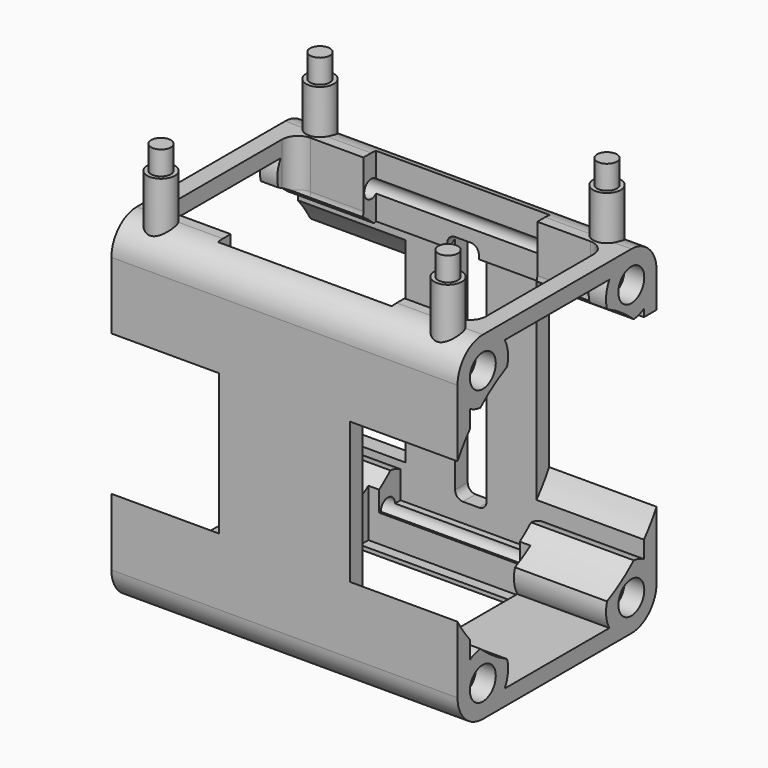
from build123d import *

# Parameters (mm, degrees)
BOX011_W          = 4
BOX011_H          = 30
BOX011_DEPTH      = 30
FILLET001_R       = 1
BOX_W             = 22
BOX_H             = 25
BOX_DEPTH         = 10
BOX009_W          = 14.4
BOX009_H          = 16
BOX009_DEPTH      = 10
CYLINDER004_R     = 18.1
CYLINDER004_DEPTH = 14.4
CYLINDER005_R     = 18.1
CYLINDER005_DEPTH = 14.4
SKETCH004_W       = 20.5
SKETCH004_H       = 1.35
PAD004_DEPTH      = 0.5
SKETCH006_W       = 20.5
SKETCH006_H       = 1.5
PAD006_DEPTH      = 0.5
BOX006_W          = 20.5
BOX006_H          = 20.7
BOX006_DEPTH      = 10
BOX010_W          = 17.8
BOX010_H          = 27.486102
BOX010_DEPTH      = 10
BOX007_W          = 39.4
BOX007_H          = 21
BOX007_DEPTH      = 10
FILLET_R          = 2
BOX008_W          = 14.4
BOX008_H          = 16
BOX008_DEPTH      = 10
SKETCH003_R       = 1.125
PAD003_DEPTH      = 19.4
SKETCH005_R       = 2.05
PAD005_DEPTH      = 21.9
SKETCH012_W       = 50
SKETCH012_H       = 40
SKETCH012_R       = 1.75
PAD010_DEPTH      = 7
BOX013_W          = 50
BOX013_H          = 40
BOX013_DEPTH      = 7
SKETCH011_W       = 50
SKETCH011_H       = 40
SKETCH011_R       = 1.25
PAD009_DEPTH      = 10
BOX012_W          = 50
BOX012_H          = 40
BOX012_DEPTH      = 10


with BuildPart() as fillet001:
    # Box011 → Box011 (new body)
    with BuildSketch(Plane(origin=(-2, 0, -15), x_dir=(1, 0, 0), z_dir=(0, 0, 1))):
        with Locations((2, 15)):
            Rectangle(BOX011_W, BOX011_H)
    extrude(amount=BOX011_DEPTH)

    # Fillet001
    fillet001_edges = [fillet001.edges().sort_by_distance(p)[0] for p in [
        (-2, 0, 0),
        (-2, 15, 15),
        (-2, 30, 0),
        (-2, 15, -15),
        (2, 0, 0),
        (2, 15, 15),
        (2, 30, 0),
        (2, 15, -15),
        (0, 0, -15),
        (0, 0, 15),
        (0, 30, -15),
        (0, 30, 15),
    ]]
    fillet(fillet001_edges, radius=FILLET001_R)


with BuildPart() as cube:
    # Box → Box (new body)
    with BuildSketch(Plane(origin=(-11, -12.5, 12), x_dir=(1, 0, 0), z_dir=(0, 0, 1))):
        with Locations((11, 12.5)):
            Rectangle(BOX_W, BOX_H)
    extrude(amount=BOX_DEPTH)


with BuildPart() as cube009:
    # Box009 → Box009 (new body)
    with BuildSketch(Plane(origin=(8.3, 12, 3), x_dir=(1, 0, 0), z_dir=(0, 0, 1))):
        with Locations((7.2, 8)):
            Rectangle(BOX009_W, BOX009_H)
    extrude(amount=BOX009_DEPTH)


with BuildPart() as cylinder004:
    # Cylinder004 → Cylinder004 (new body)
    with BuildSketch(Plane(origin=(-22.7, 0, 0), x_dir=(0, 0, -1), z_dir=(1, 0, 0))):
        Circle(CYLINDER004_R)
    extrude(amount=CYLINDER004_DEPTH)


with BuildPart() as cylinder005:
    # Cylinder005 → Cylinder005 (new body)
    with BuildSketch(Plane(origin=(8.3, 0, 0), x_dir=(0, 0, -1), z_dir=(1, 0, 0))):
        Circle(CYLINDER005_R)
    extrude(amount=CYLINDER005_DEPTH)


with BuildPart() as body005:
    # Sketch004 → Pad004 (new body)
    with BuildSketch(Plane.XY.offset(-21.609789)):
        with Locations((0, -9.775)):
            Rectangle(SKETCH004_W, SKETCH004_H)
    extrude(amount=PAD004_DEPTH)


with BuildPart() as fusion008:
    # Sketch006 → Pad006 (new body)
    with BuildSketch(Plane.XY.offset(-21.609789)):
        with Locations((0, 9.8)):
            Rectangle(SKETCH006_W, SKETCH006_H)
    extrude(amount=PAD006_DEPTH)

    # Fusion007: union Body005
    add(body005.part)


with BuildPart() as fusion008_1:
    # Fusion007 placement: moved
    add(fusion008.part.moved(Location((0, 0, 0.2))))


with BuildPart() as cut001:
    # Box006 → Box006 (new body)
    with BuildSketch(Plane(origin=(-10.25, -10.35, -22.409789), x_dir=(1, 0, 0), z_dir=(0, 0, 1))):
        with Locations((10.25, 10.35)):
            Rectangle(BOX006_W, BOX006_H)
    extrude(amount=BOX006_DEPTH)

    # Cut001: cut Fusion008
    add(fusion008_1.part, mode=Mode.SUBTRACT)


with BuildPart() as cube010:
    # Box010 → Box010 (new body)
    with BuildSketch(Plane(origin=(-8.9, -13.743051, -17.409789), x_dir=(1, 0, 0), z_dir=(0, 0, 1))):
        with Locations((8.9, 13.743051)):
            Rectangle(BOX010_W, BOX010_H)
    extrude(amount=BOX010_DEPTH)


with BuildPart() as fillet_body:
    # Box007 → Box007 (new body)
    with BuildSketch(Plane(origin=(-19.7, -10.5, 13.409789), x_dir=(1, 0, 0), z_dir=(0, 0, 1))):
        with Locations((19.7, 10.5)):
            Rectangle(BOX007_W, BOX007_H)
    extrude(amount=BOX007_DEPTH)

    # Fillet
    fillet_edges = [fillet_body.edges().sort_by_distance(p)[0] for p in [
        (-19.7, -10.5, 18.409789),
        (-19.7, 0, 23.409789),
        (-19.7, 10.5, 18.409789),
        (-19.7, 0, 13.409789),
        (19.7, -10.5, 18.409789),
        (19.7, 0, 23.409789),
        (19.7, 10.5, 18.409789),
        (19.7, 0, 13.409789),
        (0, -10.5, 13.409789),
        (0, -10.5, 23.409789),
        (0, 10.5, 13.409789),
        (0, 10.5, 23.409789),
    ]]
    fillet(fillet_edges, radius=FILLET_R)


with BuildPart() as fusion007:
    # Box008 → Box008 (new body)
    with BuildSketch(Plane(origin=(-22.7, 12, -13), x_dir=(1, 0, 0), z_dir=(0, 0, 1))):
        with Locations((7.2, 8)):
            Rectangle(BOX008_W, BOX008_H)
    extrude(amount=BOX008_DEPTH)

    # Fusion006: union Cube009, Cylinder004, Cylinder005, Cut001, Cube010, Fillet body
    add(cube009.part)
    add(cylinder004.part)
    add(cylinder005.part)
    add(cut001.part)
    add(cube010.part)
    add(fillet_body.part)


with BuildPart() as cut004:
    # Sketch003 → Pad003 (new body, symmetric)
    with BuildSketch(Plane.YZ):
        with BuildLine():
            ThreePointArc((-11.743051, 21.409789), (-14.571478, 20.238216), (-15.743051, 17.409789))
            Line((-15.743051, 17.409789), (-15.743051, -17.409789))
            ThreePointArc((-15.743051, -17.409789), (-14.571478, -20.238216), (-11.743051, -21.409789))
            Line((-11.743051, -21.409789), (11.743051, -21.409789))
            ThreePointArc((11.743051, -21.409789), (14.571478, -20.238216), (15.743051, -17.409789))
            Line((15.743051, 17.409765), (15.743051, -17.409789))
            ThreePointArc((15.743051, 17.409765), (14.571487, 20.238208), (11.743051, 21.409789))
            Line((-11.743051, 21.409789), (11.743051, 21.409789))
        make_face()
        with Locations((11.743051, 17.409789)):
            Circle(SKETCH003_R, mode=Mode.SUBTRACT)
        with Locations((-11.743051, 17.409789)):
            Circle(SKETCH003_R, mode=Mode.SUBTRACT)
        with Locations((-11.743051, -17.409789)):
            Circle(SKETCH003_R, mode=Mode.SUBTRACT)
        with Locations((11.743051, -17.409789)):
            Circle(SKETCH003_R, mode=Mode.SUBTRACT)
        with BuildLine():
            Line((-13.743051, 13.945687), (-13.743051, -13.945687))
            ThreePointArc((-8.278949, -19.409789), (-8.914624, -14.581362), (-13.743051, -13.945687))
            Line((-8.278949, -19.409789), (8.278949, -19.409789))
            ThreePointArc((13.743051, -13.945687), (8.914624, -14.581362), (8.278949, -19.409789))
            Line((13.743051, 13.945687), (13.743051, -13.945687))
            ThreePointArc((8.278949, 19.409789), (8.914624, 14.581362), (13.743051, 13.945687))
            Line((-8.278949, 19.409789), (8.278949, 19.409789))
            ThreePointArc((-13.743051, 13.945687), (-8.914624, 14.581362), (-8.278949, 19.409789))
        make_face(mode=Mode.SUBTRACT)
    extrude(amount=PAD003_DEPTH, both=True)

    # Sketch005 → Pad005 (join, symmetric)
    with BuildSketch(Plane.YZ):
        with BuildLine():
            ThreePointArc((-11.743051, 21.409789), (-14.571478, 20.238216), (-15.743051, 17.409789))
            Line((-15.743051, 17.409789), (-15.743051, -17.409789))
            ThreePointArc((-15.743051, -17.409789), (-14.571478, -20.238216), (-11.743051, -21.409789))
            Line((-11.743051, -21.409789), (11.743051, -21.409789))
            ThreePointArc((11.743051, -21.409789), (14.571478, -20.238216), (15.743051, -17.409789))
            Line((15.743051, 17.409765), (15.743051, -17.409789))
            ThreePointArc((15.743051, 17.409765), (14.571487, 20.238208), (11.743051, 21.409789))
            Line((-11.743051, 21.409789), (11.743051, 21.409789))
        make_face()
        with Locations((11.743051, 17.409789)):
            Circle(SKETCH005_R, mode=Mode.SUBTRACT)
        with Locations((-11.743051, 17.409789)):
            Circle(SKETCH005_R, mode=Mode.SUBTRACT)
        with Locations((-11.743051, -17.409789)):
            Circle(SKETCH005_R, mode=Mode.SUBTRACT)
        with Locations((11.743051, -17.409789)):
            Circle(SKETCH005_R, mode=Mode.SUBTRACT)
        with BuildLine():
            Line((-13.743051, 13.945687), (-13.743051, -13.945687))
            ThreePointArc((-8.278949, -19.409789), (-8.914624, -14.581362), (-13.743051, -13.945687))
            Line((-8.278949, -19.409789), (8.278949, -19.409789))
            ThreePointArc((13.743051, -13.945687), (8.914624, -14.581362), (8.278949, -19.409789))
            Line((13.743051, 13.945687), (13.743051, -13.945687))
            ThreePointArc((8.278949, 19.409789), (8.914624, 14.581362), (13.743051, 13.945687))
            Line((-8.278949, 19.409789), (8.278949, 19.409789))
            ThreePointArc((-13.743051, 13.945687), (-8.914624, 14.581362), (-8.278949, 19.409789))
        make_face(mode=Mode.SUBTRACT)
    extrude(amount=PAD005_DEPTH, both=True)

    # Cut: cut Fusion007
    add(fusion007.part, mode=Mode.SUBTRACT)

    # Cut002: cut Cube
    add(cube.part, mode=Mode.SUBTRACT)

    # Cut004: cut Fillet001
    add(fillet001.part, mode=Mode.SUBTRACT)


with BuildPart() as body012:
    # Sketch012 → Pad010 (new body)
    with BuildSketch(Plane.XY):
        Rectangle(SKETCH012_W, SKETCH012_H)
        with Locations((-18.16, 12.573)):
            Circle(SKETCH012_R, mode=Mode.SUBTRACT)
        with Locations((-18.16, -12.573)):
            Circle(SKETCH012_R, mode=Mode.SUBTRACT)
        with Locations((18.16, -12.573)):
            Circle(SKETCH012_R, mode=Mode.SUBTRACT)
        with Locations((18.16, 12.573)):
            Circle(SKETCH012_R, mode=Mode.SUBTRACT)
    extrude(amount=PAD010_DEPTH)


with BuildPart() as body012_1:
    # Body011 placement: moved
    add(body012.part.moved(Location((0, 0, 20))))


with BuildPart() as cut005:
    # Box013 → Box013 (new body)
    with BuildSketch(Plane(origin=(-25, -20, 20), x_dir=(1, 0, 0), z_dir=(0, 0, 1))):
        with Locations((25, 20)):
            Rectangle(BOX013_W, BOX013_H)
    extrude(amount=BOX013_DEPTH)

    # Cut005: cut Body012
    add(body012_1.part, mode=Mode.SUBTRACT)


with BuildPart() as body011:
    # Sketch011 → Pad009 (new body)
    with BuildSketch(Plane.XY):
        Rectangle(SKETCH011_W, SKETCH011_H)
        with Locations((-18.16, 12.573)):
            Circle(SKETCH011_R, mode=Mode.SUBTRACT)
        with Locations((-18.16, -12.573)):
            Circle(SKETCH011_R, mode=Mode.SUBTRACT)
        with Locations((18.16, -12.573)):
            Circle(SKETCH011_R, mode=Mode.SUBTRACT)
        with Locations((18.16, 12.573)):
            Circle(SKETCH011_R, mode=Mode.SUBTRACT)
    extrude(amount=PAD009_DEPTH)


with BuildPart() as body011_1:
    # Body010 placement: moved
    add(body011.part.moved(Location((0, 0, 20))))


with BuildPart() as fusion011:
    # Box012 → Box012 (new body)
    with BuildSketch(Plane(origin=(-25, -20, 20), x_dir=(1, 0, 0), z_dir=(0, 0, 1))):
        with Locations((25, 20)):
            Rectangle(BOX012_W, BOX012_H)
    extrude(amount=BOX012_DEPTH)

    # Cut003: cut Body011
    add(body011_1.part, mode=Mode.SUBTRACT)

    # Fusion010: union Cut004, Cut005
    add(cut004.part)
    add(cut005.part)


solid = fusion011.part
